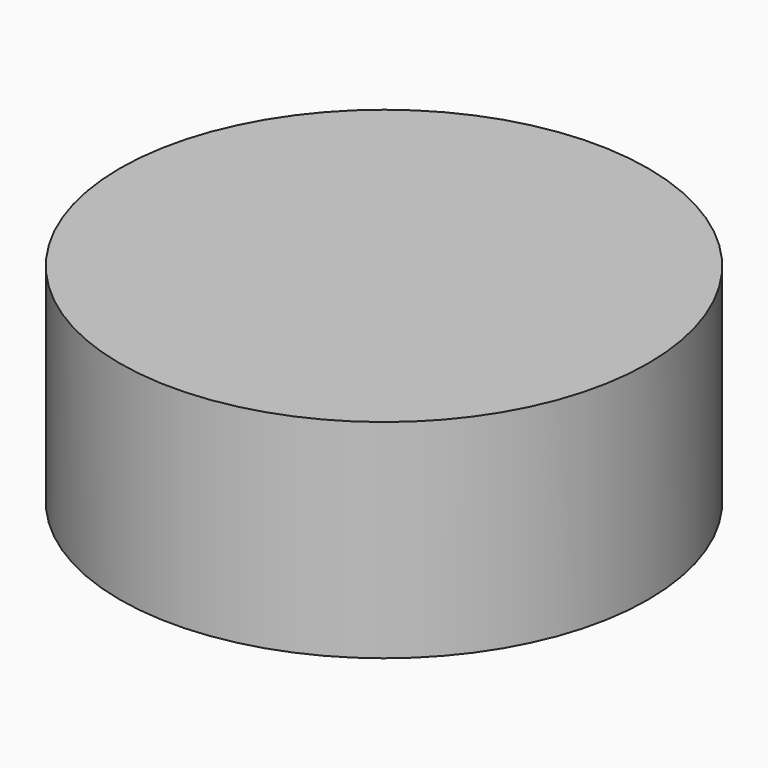
from build123d import *

# Parameters (mm, degrees)
CYLINDER_R     = 19.05
CYLINDER_DEPTH = 15


with BuildPart() as part:
    # Cylinder → Cylinder (new body)
    with BuildSketch(Plane.XY.offset(-2.5)):
        Circle(CYLINDER_R)
    extrude(amount=CYLINDER_DEPTH)


solid = part.part
